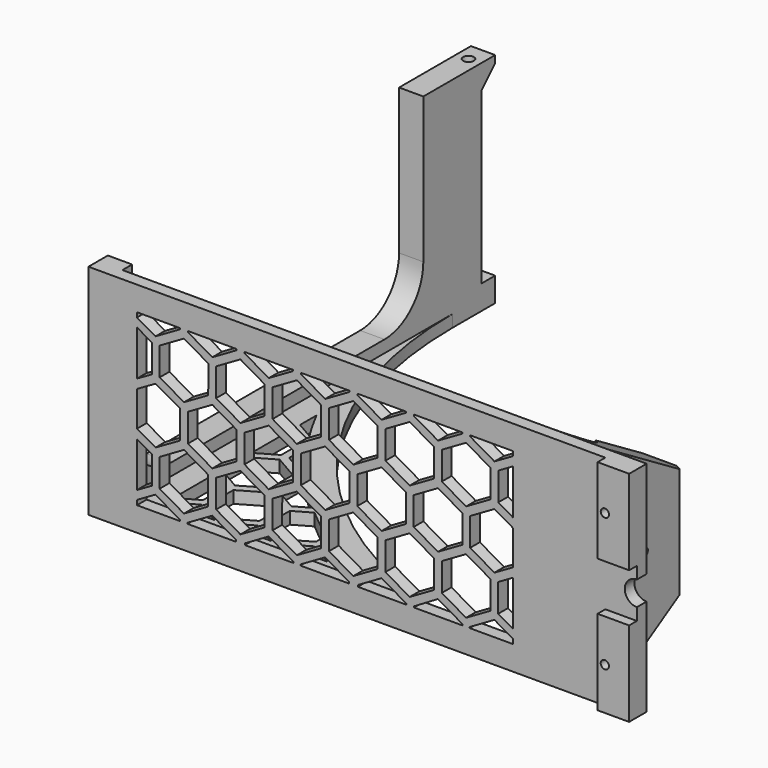
from build123d import *

# Parameters (mm, degrees)
PAD_DEPTH            = 10
SKETCH001_W          = 90
SKETCH001_H          = 5
PAD001_DEPTH         = 200
PAD002_DEPTH         = 5
PAD003_DEPTH         = 25
SKETCH004_R          = 10
POCKET_DEPTH         = 90.001
SKETCH006_R          = 2.15
POCKET001_DEPTH      = 317.469031
POCKET002_DEPTH      = 90.001
SKETCH008_R          = 2.2
POCKET003_DEPTH      = 85
SKETCH009_W          = 90
SKETCH009_H          = 5
PAD004_DEPTH         = 16
SKETCH010_W          = 35
SKETCH010_H          = 13
PAD005_DEPTH         = 4
SKETCH011_R          = 1.7
POCKET004_DEPTH      = 201.001
SKETCH012_R          = 5
POCKET005_DEPTH      = 9.001
SKETCH013_R          = 2.7
POCKET006_DEPTH      = 197.001
POCKET007_DEPTH      = 5.001
POCKET008_DEPTH      = 5
POCKET009_DEPTH      = 0.5
PAD006_DEPTH         = 0.5
BODY_ROLL_ANGLE      = -87.750014
BODY_PITCH_ANGLE     = -89.984296
BODY_PLACEMENT_ANGLE = 87.749986


with BuildPart() as part:
    # Sketch → Pad (new body)
    with BuildSketch(Plane.XY):
        with BuildLine():
            Line((0, 0), (90, 0))
            Line((90, 0), (90, 10))
            Line((90, 10), (30, 10))
            ThreePointArc((10, 30), (15.857864, 15.857864), (30, 10))
            Line((10, 30), (10, 140))
            ThreePointArc((30, 160), (15.857864, 154.142136), (10, 140))
            Line((30, 160), (90, 160))
            Line((90, 160), (90, 197))
            Line((90, 197), (87, 197))
            Line((87, 197), (80.000007, 190))
            Line((80.000007, 190), (10, 190))
            Line((10, 190), (10, 197))
            Line((10, 197), (0, 197))
            Line((0, 197), (0, 0))
        make_face()
    extrude(amount=PAD_DEPTH)

    # Sketch001 (on Face15 of Pad) → Pad001 (join)
    with BuildSketch(Plane(origin=(0, 0, 0), x_dir=(1, 0, 0), z_dir=(0, 0, -1))):
        with Locations((45, -2.5)):
            Rectangle(SKETCH001_W, SKETCH001_H)
    extrude(amount=PAD001_DEPTH)

    # Sketch002 (on Face17 of Pad001) → Pad002 (join)
    with BuildSketch(Plane(origin=(0, 0, 0), x_dir=(0, -1, 0), z_dir=(-1, 0, 0))):
        with BuildLine():
            Line((-5, -170), (-5, 0))
            Line((-5, 0), (-175, 0))
            ThreePointArc((-5, -170), (-54.791847, -49.791847), (-175, 0))
        make_face()
    extrude(amount=-PAD002_DEPTH)

    # Sketch003 (on Face19 of Pad002) → Pad003 (join)
    with BuildSketch(Plane(origin=(0, 0, -200), x_dir=(1, 0, 0), z_dir=(0, 0, -1))):
        with BuildLine():
            Line((0, -5), (29.566312, -54.262898))
            ThreePointArc((29.566312, -54.262898), (45, -63), (60.433688, -54.262898))
            Line((60.433688, -54.262898), (90, -5))
            Line((90, -5), (45, -5))
            Line((45, -5), (0, -5))
        make_face()
    extrude(amount=-PAD003_DEPTH)

    # Sketch004 (on Face10 of Pad003) → Pocket (cut, through all)
    with BuildSketch(Plane.YZ.offset(90)):
        with Locations((15, -175)):
            Circle(SKETCH004_R)
    extrude(amount=-POCKET_DEPTH, mode=Mode.SUBTRACT)

    # Sketch006 (on DatumPlane) → Pocket001 (cut, through all)
    with BuildSketch(Plane(origin=(45, 247, 0), x_dir=(-1, 0, 0), z_dir=(0, 0.746742, 0.665114))):
        Circle(SKETCH006_R)
    extrude(amount=-POCKET001_DEPTH, mode=Mode.SUBTRACT)

    # Sketch007 (on Face10 of Pocket001) → Pocket002 (cut, through all)
    with BuildSketch(Plane.YZ.offset(90)):
        Polygon((36.585976, -169.165135), (21.651141, -182.467417), (8.348859, -167.532583), (23.283694, -154.230301), align=None)
        Polygon((89.609009, -157.595272), (0, -237.408964), (19.953423, -259.811216), (109.562432, -179.997524), align=None)
    extrude(amount=-POCKET002_DEPTH, mode=Mode.SUBTRACT)

    # Sketch008 (on Face3 of Pocket002) → Pocket003 (cut)
    with BuildSketch(Plane.YZ.offset(90)):
        with Locations((189.5, 5)):
            Circle(SKETCH008_R)
    extrude(amount=-POCKET003_DEPTH, mode=Mode.SUBTRACT)

    # Sketch009 (on Face23 of Pocket003) → Pad004 (join)
    with BuildSketch(Plane(origin=(0, 0, -200), x_dir=(1, 0, 0), z_dir=(0, 0, -1))):
        with Locations((45, -2.5)):
            Rectangle(SKETCH009_W, SKETCH009_H)
    extrude(amount=PAD004_DEPTH)

    # Sketch010 (on Face33 of Pad004) → Pad005 (join)
    with BuildSketch(Plane.XZ):
        with Locations((72.5, -209.5)):
            Rectangle(SKETCH010_W, SKETCH010_H)
        with Locations((17.5, -209.5)):
            Rectangle(SKETCH010_W, SKETCH010_H)
    extrude(amount=PAD005_DEPTH)

    # Sketch011 (on Face28 of Pad005) → Pocket004 (cut, through all)
    with BuildSketch(Plane.XZ.offset(4)):
        with Locations((17.5, -206)):
            Circle(SKETCH011_R)
        with Locations((72.5, -206)):
            Circle(SKETCH011_R)
    extrude(amount=-POCKET004_DEPTH, mode=Mode.SUBTRACT)

    # Sketch012 (on Face26 of Pocket004) → Pocket005 (cut, through all)
    with BuildSketch(Plane(origin=(0, 5, 0), x_dir=(-1, 0, 0), z_dir=(0, 1, 0))):
        with Locations((-45, -216)):
            Circle(SKETCH012_R)
    extrude(amount=-POCKET005_DEPTH, mode=Mode.SUBTRACT)

    # Sketch013 (on Face21 of Pocket005) → Pocket006 (cut, through all)
    with BuildSketch(Plane.XZ):
        with Locations((17.5, -206)):
            Circle(SKETCH013_R)
        with Locations((72.5, -206)):
            Circle(SKETCH013_R)
    extrude(amount=-POCKET006_DEPTH, mode=Mode.SUBTRACT)

    # Sketch014 (on Face13 of Pocket006) → Pocket007 (cut, through all)
    with BuildSketch(Plane.YZ.offset(5)):
        Polygon((20.775509, -20), (15, -10), (15, -30), align=None)
        Polygon((15, -53.25), (20.775509, -43.25), (15, -33.25), align=None)
        Polygon((15, -76.5), (20.775509, -66.5), (15, -56.5), align=None)
        with BuildLine():
            Line((17.155868, -83.482776), (15, -79.75))
            Line((15, -79.75), (15, -87.537887))
            ThreePointArc((17.155868, -83.482776), (16.065001, -85.503456), (15, -87.537887))
        make_face()
        Polygon((40.904583, -31.625), (35.132083, -21.626737), (23.587083, -21.626737), (17.814583, -31.625), (23.587083, -41.623263), (35.132083, -41.623263), align=None)
        Polygon((18.753102, -10), (23.591094, -18.376737), (35.136094, -18.376737), (39.974086, -10), align=None)
        with BuildLine():
            Line((39.176014, -51.882072), (35.128069, -44.873261))
            Line((35.128069, -44.873261), (23.591096, -44.873261))
            Line((23.591096, -44.873261), (17.814583, -54.875))
            Line((17.814583, -54.875), (23.589087, -64.873261))
            Line((23.589087, -64.873261), (28.88919, -64.873261))
            ThreePointArc((39.176014, -51.882072), (33.883027, -58.259228), (28.88919, -64.873261))
        make_face()
        with BuildLine():
            Line((26.604818, -68.123261), (23.591095, -68.123261))
            Line((23.591095, -68.123261), (17.814582, -78.124999))
            Line((17.814582, -78.124999), (19.006554, -80.188838))
            ThreePointArc((26.604818, -68.123261), (22.686167, -74.080783), (19.006554, -80.188838))
        make_face()
        Polygon((61.038668, -20.00521), (55.266168, -10.006947), (43.721168, -10.006947), (37.948668, -20.00521), (43.721168, -30.003474), (55.266168, -30.003474), align=None)
        with BuildLine():
            Line((56.159732, -34.807579), (55.262157, -33.253474))
            Line((55.262157, -33.253474), (43.717157, -33.253474))
            Line((43.717157, -33.253474), (37.944657, -43.251737))
            Line((37.944657, -43.251737), (41.448553, -49.318555))
            ThreePointArc((56.159732, -34.807579), (48.595742, -41.851791), (41.448553, -49.318555))
        make_face()
        with BuildLine():
            Line((73.081227, -21.633684), (63.851242, -21.633684))
            Line((63.851242, -21.633684), (58.078742, -31.631947))
            Line((58.078742, -31.631947), (58.664538, -32.646223))
            ThreePointArc((73.081227, -21.633684), (65.734055, -26.958212), (58.664538, -32.646223))
        make_face()
        Polygon((59.014931, -10), (63.855254, -18.383687), (75.400254, -18.383687), (80.240578, -10), align=None)
        with BuildLine():
            Line((92.537887, -10), (83.993355, -10))
            Line((83.993355, -10), (79.824795, -17.220157))
            ThreePointArc((92.537887, -10), (86.108005, -13.480949), (79.824795, -17.220157))
        make_face()
    extrude(amount=-POCKET007_DEPTH, mode=Mode.SUBTRACT)

    # Sketch015 (on Face12 of Pocket007) → Pocket008 (cut)
    with BuildSketch(Plane(origin=(0, 5, 0), x_dir=(-1, 0, 0), z_dir=(0, 1, 0))):
        Polygon((-19.035748, -16.125), (-15.499478, -10), (-34.012721, -10), (-30.582753, -16.125), align=None)
        Polygon((-13.262245, -29.375), (-19.035748, -19.375), (-30.582753, -19.375), (-36.356256, -29.375), (-30.582753, -39.375), (-19.035748, -39.375), align=None)
        Polygon((-13.262245, -52.625), (-19.035748, -42.625), (-30.582753, -42.625), (-36.356256, -52.625), (-30.582753, -62.625), (-19.035748, -62.625), align=None)
        Polygon((-13.262245, -75.875), (-19.035748, -65.875), (-30.582753, -65.875), (-36.356256, -75.875), (-30.582753, -85.875), (-19.035748, -85.875), align=None)
        Polygon((-13.262245, -99.125), (-19.035748, -89.125), (-30.582753, -89.125), (-36.356256, -99.125), (-30.582753, -109.125), (-19.035748, -109.125), align=None)
        Polygon((-13.262245, -122.375), (-19.035748, -112.375), (-30.582753, -112.375), (-36.356256, -122.375), (-30.582753, -132.375), (-19.035748, -132.375), align=None)
        Polygon((-13.262245, -145.625), (-19.035748, -135.625), (-30.582753, -135.625), (-36.356256, -145.625), (-30.582753, -155.625), (-19.035748, -155.625), align=None)
        Polygon((-15.499478, -165), (-19.035748, -158.875), (-30.582753, -158.875), (-34.119024, -165), align=None)
        Polygon((-39.199723, -27.79819), (-33.428469, -17.694842), (-37.73754, -10), (-52.180868, -10), (-56.520231, -17.596632), (-50.835124, -27.748704), align=None)
        Polygon((-79.529173, -27.710822), (-73.689743, -17.596632), (-78.07566, -10), (-80, -10), (-80, -27.710822), align=None)
        Polygon((-53.648958, -29.375), (-59.42246, -19.375), (-70.969466, -19.375), (-76.742968, -29.375), (-70.969466, -39.375), (-59.42246, -39.375), align=None)
        Polygon((-11.92434, -10), (-16.310257, -17.596632), (-10.420385, -27.79819), (-10, -27.79819), (-10, -10), align=None)
        Polygon((-74.505736, -10), (-70.969466, -16.125), (-59.42246, -16.125), (-55.923726, -10), align=None)
        Polygon((-33.42622, -41.04819), (-39.199723, -31.04819), (-50.746728, -31.04819), (-56.520231, -41.04819), (-50.746728, -51.04819), (-39.199723, -51.04819), align=None)
        Polygon((-33.42622, -64.29819), (-39.199723, -54.29819), (-50.746728, -54.29819), (-56.520231, -64.29819), (-50.746728, -74.29819), (-39.199723, -74.29819), align=None)
        Polygon((-33.42622, -87.54819), (-39.199723, -77.54819), (-50.746728, -77.54819), (-56.520231, -87.54819), (-50.746728, -97.54819), (-39.199723, -97.54819), align=None)
        Polygon((-33.42622, -110.79819), (-39.199723, -100.79819), (-50.746728, -100.79819), (-56.520231, -110.79819), (-50.746728, -120.79819), (-39.199723, -120.79819), align=None)
        Polygon((-33.42622, -134.04819), (-39.199723, -124.04819), (-50.746728, -124.04819), (-56.520231, -134.04819), (-50.746728, -144.04819), (-39.199723, -144.04819), align=None)
        Polygon((-33.42622, -157.29819), (-39.199723, -147.29819), (-50.746728, -147.29819), (-56.520231, -157.29819), (-52.073588, -165), (-37.872862, -165), align=None)
        Polygon((-53.648958, -52.625), (-59.42246, -42.625), (-70.969466, -42.625), (-76.742968, -52.625), (-70.969466, -62.625), (-59.42246, -62.625), align=None)
        Polygon((-53.648958, -75.875), (-59.42246, -65.875), (-70.969466, -65.875), (-76.742968, -75.875), (-70.969466, -85.875), (-59.42246, -85.875), align=None)
        Polygon((-53.648958, -99.125), (-59.42246, -89.125), (-70.969466, -89.125), (-76.742968, -99.125), (-70.969466, -109.125), (-59.42246, -109.125), align=None)
        Polygon((-59.42246, -132.375), (-53.648958, -122.375), (-59.42246, -112.375), (-70.969466, -112.375), (-76.742968, -122.375), (-70.969466, -132.375), align=None)
        Polygon((-53.648958, -145.625), (-59.42246, -135.625), (-70.969466, -135.625), (-76.742968, -145.625), (-70.969466, -155.625), (-59.42246, -155.625), align=None)
        Polygon((-55.88619, -165), (-59.42246, -158.875), (-70.969466, -158.875), (-74.505736, -165), align=None)
        Polygon((-73.755671, -41.04819), (-79.529173, -31.04819), (-80, -31.04819), (-80, -51.04819), (-79.529173, -51.04819), align=None)
        Polygon((-73.755671, -64.29819), (-79.529173, -54.29819), (-80, -54.29819), (-80, -74.29819), (-79.529173, -74.29819), align=None)
        Polygon((-73.755671, -87.54819), (-79.529173, -77.54819), (-80, -77.54819), (-80, -97.54819), (-79.529173, -97.54819), align=None)
        Polygon((-73.755671, -110.79819), (-79.529173, -100.79819), (-80, -100.79819), (-80, -120.79819), (-79.529173, -120.79819), align=None)
        Polygon((-73.755671, -134.04819), (-79.529173, -124.04819), (-80, -124.04819), (-80, -144.04819), (-79.529173, -144.04819), align=None)
        Polygon((-73.755671, -157.29819), (-79.529173, -147.29819), (-80, -147.29819), (-80, -165), (-78.202313, -165), align=None)
        Polygon((-10, -30.846632), (-10.420385, -30.846632), (-16.310257, -41.04819), (-10.653911, -50.845268), (-10, -50.845268), align=None)
        Polygon((-10, -54.501111), (-10.653911, -54.501111), (-16.310257, -64.29819), (-10.420385, -74.499747), (-10, -74.499747), align=None)
        Polygon((-10, -77.346632), (-10.420385, -77.346632), (-16.310257, -87.54819), (-10.653911, -97.345268), (-10, -97.345268), align=None)
        Polygon((-10, -101.001111), (-10.653911, -101.001111), (-16.310257, -110.79819), (-10.420385, -120.999747), (-10, -120.999747), align=None)
        Polygon((-10, -124.116284), (-10.420385, -124.116284), (-16.310257, -134.04819), (-10.420385, -144.249747), (-10, -144.249747), align=None)
        Polygon((-10, -147.096632), (-10.420385, -147.096632), (-16.310257, -157.29819), (-11.863615, -165), (-10, -165), align=None)
    extrude(amount=-POCKET008_DEPTH, mode=Mode.SUBTRACT)

    # Sketch016 (on Face5 of Pocket008) → Pocket009 (cut)
    with BuildSketch(Plane.XY.offset(10)):
        Polygon((55.000003, 169.226497), (55.000003, 180.773503), (45.000003, 186.547005), (35.000003, 180.773503), (35.000003, 169.226497), (45.000003, 163.452995), align=None)
    extrude(amount=-POCKET009_DEPTH, mode=Mode.SUBTRACT)

    # Sketch017 (on Face296 of Pocket009) → Pad006 (join)
    with BuildSketch(Plane.XY.offset(9.5)):
        Polygon((41.902474, 182.009972), (44.972448, 182.009972), (40.006135, 174.083789), (36.936162, 174.083789), align=None)
        Polygon((47.708389, 182.009972), (50.778363, 182.009972), (42.072975, 168.116261), (39.003001, 168.116261), align=None)
        Polygon((49.644049, 175.833084), (52.714023, 175.833084), (47.87889, 168.116261), (44.808916, 168.116261), align=None)
    extrude(amount=PAD006_DEPTH)


with BuildPart() as part_1:
    # Body roll: moved
    add(part.part.rotate(Axis((0, 0, 0), (1, 0, 0)), BODY_ROLL_ANGLE))


with BuildPart() as part_2:
    # Body pitch: moved
    add(part_1.part.rotate(Axis((0, 0, 0), (0, 1, 0)), BODY_PITCH_ANGLE))


with BuildPart() as part_3:
    # Body placement: moved
    add(part_2.part.moved(Location((30.499803, 4.000014, 0.075243))).rotate(Axis((30.499803, 4.000014, 0.075243), (0, 0, 1)), BODY_PLACEMENT_ANGLE))


solid = part_3.part
